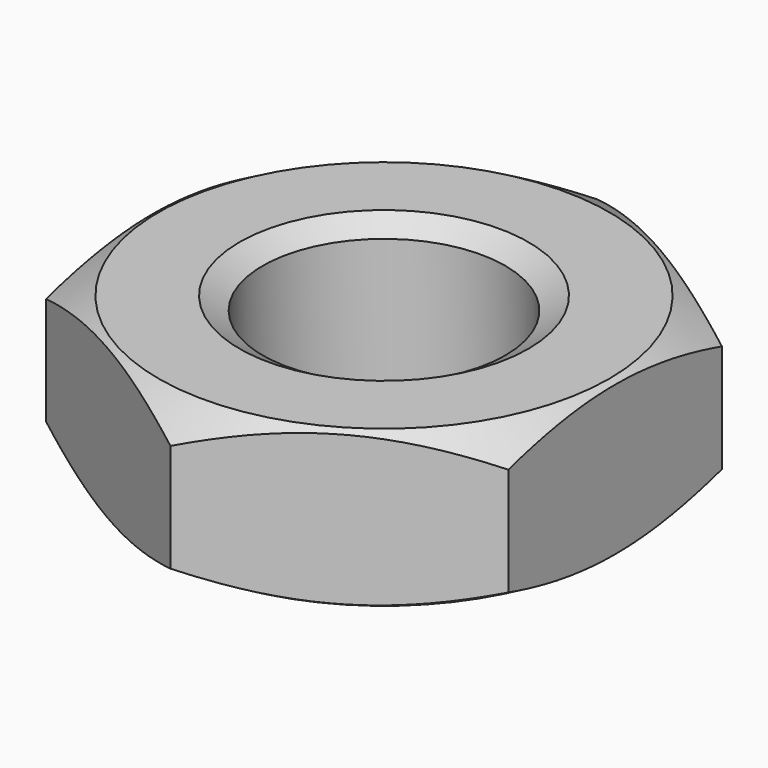
from build123d import *

# Parameters (mm, degrees)
SKETCH001_R  = 5
POCKET_DEPTH = 2.7


with BuildPart() as part:
    # Sketch → Revolution (revolve)
    with BuildSketch(Plane.XZ):
        Polygon((2.5, 0), (2.1, 0.23094), (2.1, 2.46906), (2.5, 2.7), (3.9, 2.7), (5, 2.064915), (5, 0.635085), (3.9, 0), align=None)
    revolve(axis=Axis((0, 0, 0), (0, 0, 1)))

    # Sketch001 → Pocket (cut)
    with BuildSketch(Plane(origin=(0, 0, 2.7), x_dir=(-1, 0, 0), z_dir=(0, 0, 1))):
        Circle(SKETCH001_R)
        Polygon((-4, 2.309401), (-4, -2.309401), (0, -4.618802), (4, -2.309401), (4, 2.309401), (0, 4.618802), align=None, mode=Mode.SUBTRACT)
    extrude(amount=-POCKET_DEPTH, mode=Mode.SUBTRACT)


solid = part.part
